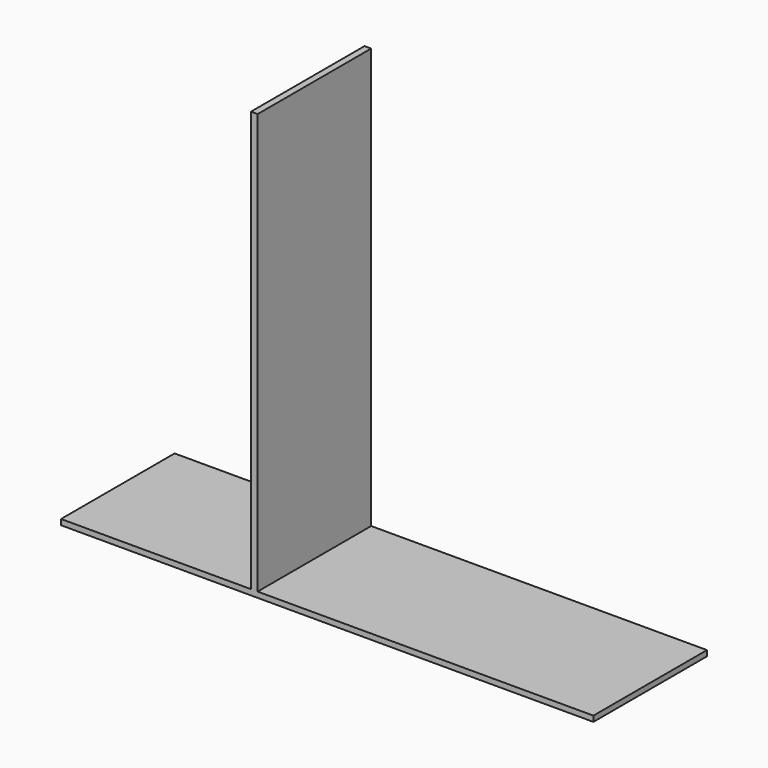
from build123d import *

# Parameters (mm, degrees)
F0_W     = 406.4
F0_H     = 15.875
F1_DEPTH = 762
F4_W     = 19.05
F4_H     = 406.4
F5_DEPTH = 1219.2


with BuildPart() as f1:
    # F0 (on Right) → F1 (new body)
    with BuildSketch(Plane.YZ):
        with Locations((203.2, 7.9375)):
            Rectangle(F0_W, F0_H)
    extrude(amount=F1_DEPTH)

    # F2: F1 across plane


with BuildPart() as f1_1:
    add(f1.part)
    add(f1.part.mirror(Plane.YZ))

    # F4 (on face) → F5 (join)
    with BuildSketch(Plane(origin=(0, 0, 0), x_dir=(1, 0, 0), z_dir=(0, 0, -1))):
        with Locations((-208.782977, -203.2)):
            Rectangle(F4_W, F4_H)
    extrude(amount=-F5_DEPTH)


solid = f1_1.part
